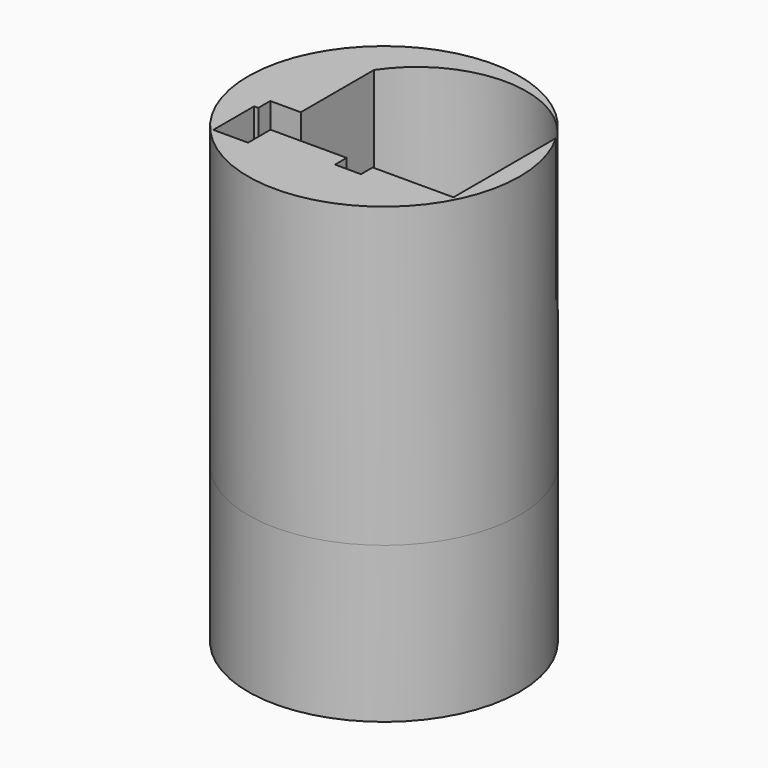
from build123d import *

# Parameters (mm, degrees)
F1_R          = 13.105
F1_R_2        = 5
F2_DEPTH      = 15
F2_DEPTH_BACK = 28.77
F4_W          = 2.51
F4_H          = 1.41
F4_W_2        = 2.9429391259
F4_H_2        = 1.44
F4_W_3        = 0.4070608741
F4_H_3        = 2.21
F5_DEPTH      = 28.77


with BuildPart() as f2:
    # F1 (on Top) → F2 (new body, two sides)
    with BuildSketch(Plane.XY) as f2_sk:
        Circle(F1_R)
        Circle(F1_R_2, mode=Mode.SUBTRACT)
    extrude(amount=-F2_DEPTH)
    extrude(f2_sk.sketch, amount=F2_DEPTH_BACK)

    # F4 (on offset) → F5 (cut)
    with BuildSketch(Plane.XY.offset(15)):
        with Locations((2.2699399906, -6.4672684696)):
            Rectangle(F4_W, F4_H)
        Polygon((-6.3350600094, -3.5522684696), (-9.2779991353, -3.5522684696), (-9.6850600094, -3.5522684696), (-9.6850600094, -5.7622684696), (-9.6850600094, -8.4722684696), (-6.3350600094, -8.4722684696), (-6.3350600094, -5.7622684696), (1.0149399906, -5.7622684696), (3.5249399906, -5.7622684696), (10.9149399906, -5.7622684696), (10.9149399906, -3.5522684696), align=None)
        with BuildLine():
            ThreePointArc((11.3220008647, 6.7277315304), (2.4934704277, 11.4417501839), (-6.3350600094, 6.7277315304))
            Line((-6.3350600094, 6.7277315304), (11.3220008647, 6.7277315304))
        make_face()
        Polygon((-6.3350600094, -2.1122684696), (-6.3350600094, -3.5522684696), (10.9149399906, -3.5522684696), (11.3220008647, -3.5522684696), (11.3220008647, 6.7277315304), (-6.3350600094, 6.7277315304), align=None)
        with Locations((-7.8065295723, -2.8322684696)):
            Rectangle(F4_W_2, F4_H_2)
        with Locations((11.1184704277, -4.6572684696)):
            Rectangle(F4_W_3, F4_H_3)
    extrude(amount=F5_DEPTH, mode=Mode.SUBTRACT)


solid = f2.part
